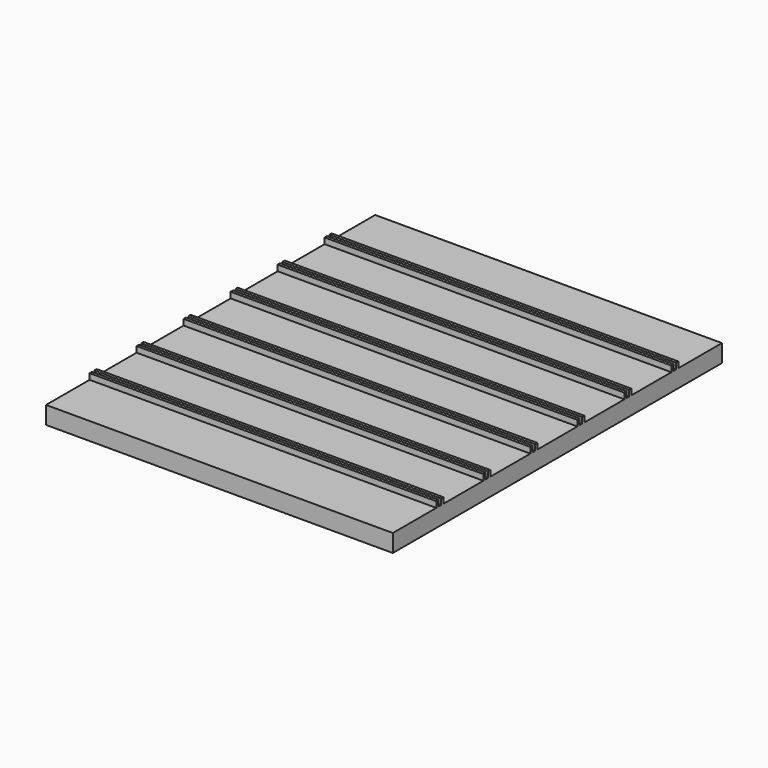
from build123d import *

# Parameters (mm, degrees)
SKETCH_W     = 59
SKETCH_H     = 70
PAD_DEPTH    = 3
SKETCH001_W  = 59
SKETCH001_H  = 0.5
PAD001_DEPTH = 1


with BuildPart() as part:
    # Sketch → Pad (new body)
    with BuildSketch(Plane.XY):
        Rectangle(SKETCH_W, SKETCH_H)
    extrude(amount=PAD_DEPTH)

    # Sketch001 (on Face6 of Pad) → Pad001 (join)
    with BuildSketch(Plane.XY.offset(3)):
        with Locations((0, -25.5)):
            Rectangle(SKETCH001_W, SKETCH001_H)
        with Locations((0, -24.5)):
            Rectangle(SKETCH001_W, SKETCH001_H)
        with Locations((0, -15.5)):
            Rectangle(SKETCH001_W, SKETCH001_H)
        with Locations((0, -14.5)):
            Rectangle(SKETCH001_W, SKETCH001_H)
        with Locations((0, -5.5)):
            Rectangle(SKETCH001_W, SKETCH001_H)
        with Locations((0, -4.5)):
            Rectangle(SKETCH001_W, SKETCH001_H)
        with Locations((0, 4.5)):
            Rectangle(SKETCH001_W, SKETCH001_H)
        with Locations((0, 5.5)):
            Rectangle(SKETCH001_W, SKETCH001_H)
        with Locations((0, 14.5)):
            Rectangle(SKETCH001_W, SKETCH001_H)
        with Locations((0, 15.5)):
            Rectangle(SKETCH001_W, SKETCH001_H)
        with Locations((0, 24.5)):
            Rectangle(SKETCH001_W, SKETCH001_H)
        with Locations((0, 25.5)):
            Rectangle(SKETCH001_W, SKETCH001_H)
    extrude(amount=PAD001_DEPTH)


solid = part.part
